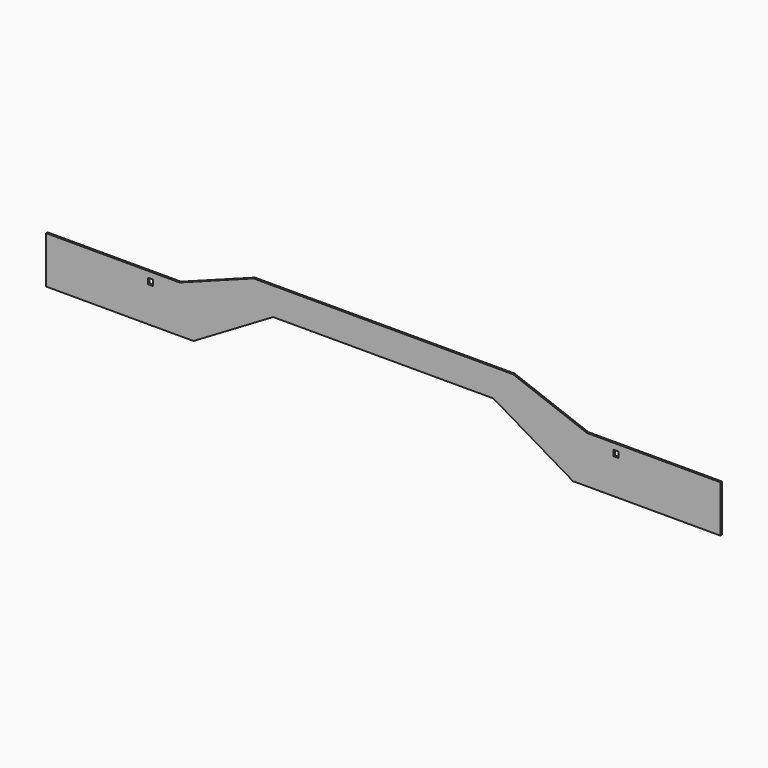
from build123d import *

# Parameters (mm, degrees)
F1_DEPTH = 3.1
F3_W     = 8.5598
F3_H     = 9.975209
F4_DEPTH = 25.4


with BuildPart() as f1:
    # F0 (on Front) → F1 (new body)
    with BuildSketch(Plane.XZ):
        Polygon((-351.025, -37.88251), (-581.025, -37.88251), (-581.025, -118.84501), (-327.025, -118.84501), (-189.790466, -37.904931), (0, -37.904931), (0, 9.720069), (-223.572938, 9.720069), align=None)
    extrude(amount=F1_DEPTH)

    # F2: F1 across plane


with BuildPart() as f1_1:
    add(f1.part)
    add(f1.part.mirror(Plane.YZ))

    # F3 (on face) → F4 (cut)
    with BuildSketch(Plane.XZ.offset(3.1)):
        with Locations((401.249896, -53.270142)):
            Rectangle(F3_W, F3_H)
        with Locations((-401.249896, -53.270142)):
            Rectangle(F3_W, F3_H)
    extrude(amount=-F4_DEPTH, mode=Mode.SUBTRACT)


solid = f1_1.part
